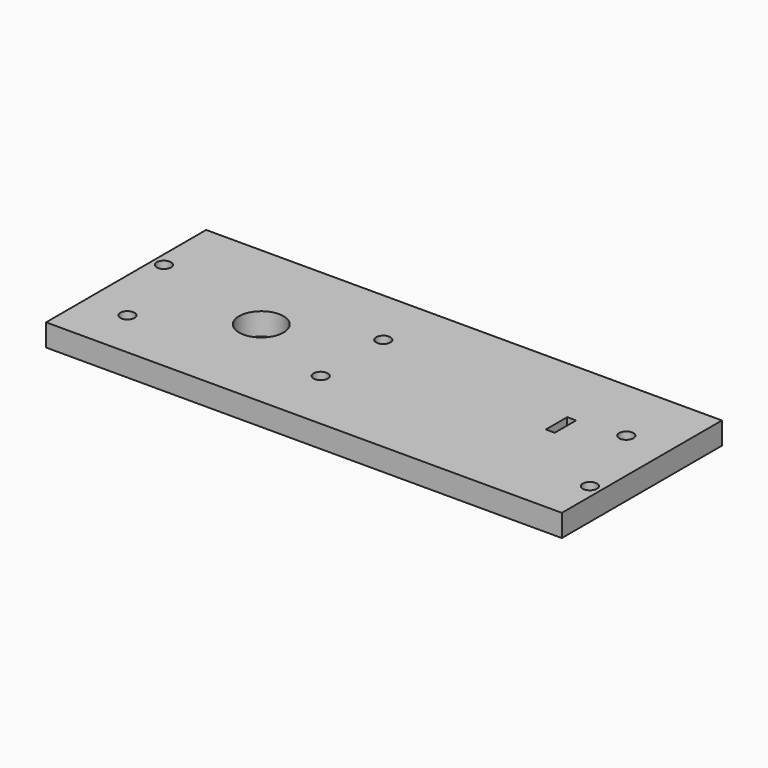
from build123d import *

# Parameters (mm, degrees)
BOX036_W                = 2
BOX036_H                = 6
BOX036_DEPTH            = 10
CYLINDER030_R           = 1.6
CYLINDER030_DEPTH       = 50
CYLINDER029_R           = 5
CYLINDER029_DEPTH       = 22.5
CYLINDER031_R           = 1.6
CYLINDER031_DEPTH       = 50
CYLINDER019_R           = 1.6
CYLINDER019_DEPTH       = 40
CYLINDER019_PITCH_ANGLE = 90
CYLINDER018_R           = 1.6
CYLINDER018_DEPTH       = 40
CYLINDER018_PITCH_ANGLE = 90
CYLINDER017_R           = 1.6
CYLINDER017_DEPTH       = 40
CYLINDER016_R           = 1.6
CYLINDER016_DEPTH       = 70
CYLINDER016_ROLL_ANGLE  = 90
CYLINDER015_R           = 1.6
CYLINDER015_DEPTH       = 40
BOX012_W                = 116
BOX012_H                = 45
BOX012_DEPTH            = 5


with BuildPart() as cube024:
    # Box036 → Box036 (new body)
    with BuildSketch(Plane(origin=(64, 0, -8), x_dir=(1, 0, 0), z_dir=(0, 0, 1))):
        with Locations((1, 3)):
            Rectangle(BOX036_W, BOX036_H)
    extrude(amount=BOX036_DEPTH)


with BuildPart() as cylinder030:
    # Cylinder030 → Cylinder030 (new body)
    with BuildSketch(Plane(origin=(20.4, 8.8, -22), x_dir=(1, 0, 0), z_dir=(0, 0, 1))):
        Circle(CYLINDER030_R)
    extrude(amount=CYLINDER030_DEPTH)


with BuildPart() as fusion034:
    # Cylinder029 → Cylinder029 (new body)
    with BuildSketch(Plane.XY.offset(-12)):
        Circle(CYLINDER029_R)
    extrude(amount=CYLINDER029_DEPTH)

    # Fusion034: union Cylinder030
    add(cylinder030.part)


with BuildPart() as motor_holes_z:
    # Cylinder031 → Cylinder031 (new body)
    with BuildSketch(Plane(origin=(20.4, -8.8, -22), x_dir=(1, 0, 0), z_dir=(0, 0, 1))):
        Circle(CYLINDER031_R)
    extrude(amount=CYLINDER031_DEPTH)

    # Fusion035: union Fusion034
    add(fusion034.part)


with BuildPart() as cylinder100:
    # Cylinder019 → Cylinder019 (new body)
    with BuildSketch(Plane.XY):
        Circle(CYLINDER019_R)
    extrude(amount=CYLINDER019_DEPTH)


with BuildPart() as cylinder100_1:
    # Cylinder019 pitch: moved
    add(cylinder100.part.rotate(Axis((0, 0, 0), (0, 1, 0)), CYLINDER019_PITCH_ANGLE))


with BuildPart() as cylinder100_2:
    # Cylinder019 placement: moved
    add(cylinder100_1.part.moved(Location((-40, 12, 9.5))))


with BuildPart() as fusion011:
    # Cylinder018 → Cylinder018 (new body)
    with BuildSketch(Plane.XY):
        Circle(CYLINDER018_R)
    extrude(amount=CYLINDER018_DEPTH)


with BuildPart() as fusion011_1:
    # Cylinder018 pitch: moved
    add(fusion011.part.rotate(Axis((0, 0, 0), (0, 1, 0)), CYLINDER018_PITCH_ANGLE))


with BuildPart() as fusion011_2:
    # Cylinder018 placement: moved
    add(fusion011_1.part.moved(Location((-40, -7, 2.5))))

    # Fusion011: union Cylinder100
    add(cylinder100_2.part)


with BuildPart() as fusion012:
    # Cylinder017 → Cylinder017 (new body)
    with BuildSketch(Plane(origin=(-27.5, 7, -15), x_dir=(1, 0, 0), z_dir=(0, 0, 1))):
        Circle(CYLINDER017_R)
    extrude(amount=CYLINDER017_DEPTH)

    # Fusion012: union Fusion011
    add(fusion011_2.part)


with BuildPart() as fusion013:
    # Cylinder016 → Cylinder016 (new body)
    with BuildSketch(Plane.XY):
        Circle(CYLINDER016_R)
    extrude(amount=CYLINDER016_DEPTH)


with BuildPart() as fusion013_1:
    # Cylinder016 roll: moved
    add(fusion013.part.rotate(Axis((0, 0, 0), (1, 0, 0)), CYLINDER016_ROLL_ANGLE))


with BuildPart() as fusion013_2:
    # Cylinder016 placement: moved
    add(fusion013_1.part.moved(Location((-24, 39, 6))))

    # Fusion013: union Fusion012
    add(fusion012.part)


with BuildPart() as cylinder008:
    # Cylinder015 → Cylinder015 (new body)
    with BuildSketch(Plane(origin=(-20.5, -12, -15), x_dir=(1, 0, 0), z_dir=(0, 0, 1))):
        Circle(CYLINDER015_R)
    extrude(amount=CYLINDER015_DEPTH)


with BuildPart() as face_corner_holes008:
    # Fusion022 base: copy of Cylinder008
    add(cylinder008.part)

    # Fusion022: union Fusion013
    add(fusion013_2.part)


with BuildPart() as face_corner_holes008_1:
    # Fusion022 placement: moved
    add(face_corner_holes008.part.moved(Location((104, 0, 0))))


with BuildPart() as face_corner_holes005:
    # Fusion019 base: copy of Cylinder008
    add(cylinder008.part)

    # Fusion019: union Fusion013
    add(fusion013_2.part)


with BuildPart() as left_a:
    # Box012 → Box012 (new body)
    with BuildSketch(Plane(origin=(-30, -23, -5), x_dir=(1, 0, 0), z_dir=(0, 0, 1))):
        with Locations((58, 22.5)):
            Rectangle(BOX012_W, BOX012_H)
    extrude(amount=BOX012_DEPTH)

    # Cut014: cut face-corner-holes005
    add(face_corner_holes005.part, mode=Mode.SUBTRACT)

    # Cut018: cut face-corner-holes008
    add(face_corner_holes008_1.part, mode=Mode.SUBTRACT)

    # Cut029: cut motor-holes-z
    add(motor_holes_z.part, mode=Mode.SUBTRACT)

    # Cut061: cut Cube024
    add(cube024.part, mode=Mode.SUBTRACT)


solid = left_a.part
